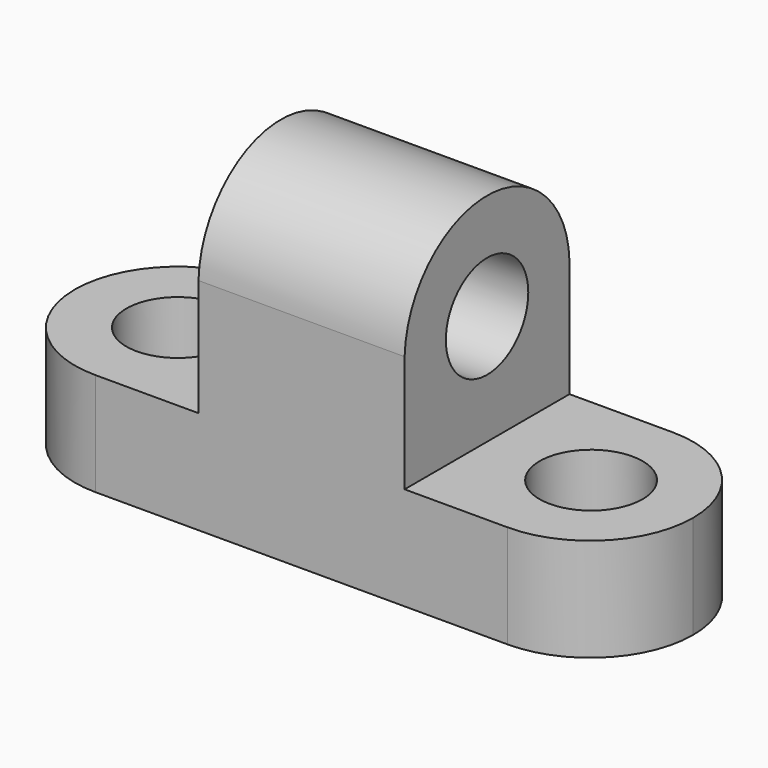
from build123d import *

# Parameters (mm, degrees)
F1_DEPTH  = 25.4
F2_R      = 6.35
F3_DEPTH  = 12.7
F5_DEPTH  = 12.7
F6_R      = 6.35
F7_DEPTH  = 12.7
F9_DEPTH  = 12.7
F10_R     = 6.35
F11_DEPTH = 25.4
F13_DEPTH = 25.4


with BuildPart() as f1:
    # F0 (on Front) → F1 (new body)
    with BuildSketch(Plane.XZ):
        Polygon((0, 12.7), (0, 0), (76.2, 0), (76.2, 12.7), (50.8, 12.7), (50.8, 39.9142862895), (25.4, 39.9142862895), (25.4, 12.7), align=None)
    extrude(amount=F1_DEPTH)

    # F2 (on face) → F3 (cut)
    with BuildSketch(Plane.XY.offset(12.7)):
        with Locations((63.6192816147, -12.6994398261)):
            Circle(F2_R)
    extrude(amount=-F3_DEPTH, mode=Mode.SUBTRACT)

    # F4 (on face) → F5 (cut)
    with BuildSketch(Plane.XY.offset(12.7)):
        with BuildLine():
            ThreePointArc((63.5, 0), (72.4802561211, -3.7197438789), (76.2, -12.7))
            Line((76.2, -12.7), (76.2, 0))
            Line((76.2, 0), (63.5, 0))
        make_face()
        with BuildLine():
            ThreePointArc((76.2, -12.7), (72.4802561211, -21.6802561211), (63.5, -25.4))
            Line((63.5, -25.4), (76.2, -25.4))
            Line((76.2, -25.4), (76.2, -12.7))
        make_face()
    extrude(amount=-F5_DEPTH, mode=Mode.SUBTRACT)

    # F6 (on face) → F7 (cut)
    with BuildSketch(Plane.XY.offset(12.7)):
        with Locations((12.7, -12.7)):
            Circle(F6_R)
    extrude(amount=-F7_DEPTH, mode=Mode.SUBTRACT)

    # F8 (on face) → F9 (cut)
    with BuildSketch(Plane.XY.offset(12.7)):
        with BuildLine():
            ThreePointArc((12.7, -25.4), (3.7197438789, -21.6802561211), (0, -12.7))
            Line((0, -12.7), (0, -25.4))
            Line((0, -25.4), (12.7, -25.4))
        make_face()
        with BuildLine():
            ThreePointArc((0, -12.7), (3.7197438789, -3.7197438789), (12.7, 0))
            Line((12.7, 0), (0, 0))
            Line((0, 0), (0, -12.7))
        make_face()
    extrude(amount=-F9_DEPTH, mode=Mode.SUBTRACT)

    # F10 (on face) → F11 (cut)
    with BuildSketch(Plane.YZ.offset(50.8)):
        with Locations((-12.7, 26.3071431448)):
            Circle(F10_R)
    extrude(amount=-F11_DEPTH, mode=Mode.SUBTRACT)

    # F12 (on face) → F13 (cut)
    with BuildSketch(Plane.YZ.offset(50.8)):
        with BuildLine():
            ThreePointArc((-25.4, 27.0906584082), (-12.7, 39.4049416249), (0, 27.0906584082))
            Line((0, 27.0906584082), (0, 39.9142862895))
            Line((0, 39.9142862895), (-25.4, 39.9142862895))
            Line((-25.4, 39.9142862895), (-25.4, 27.0906584082))
        make_face()
    extrude(amount=-F13_DEPTH, mode=Mode.SUBTRACT)


solid = f1.part
